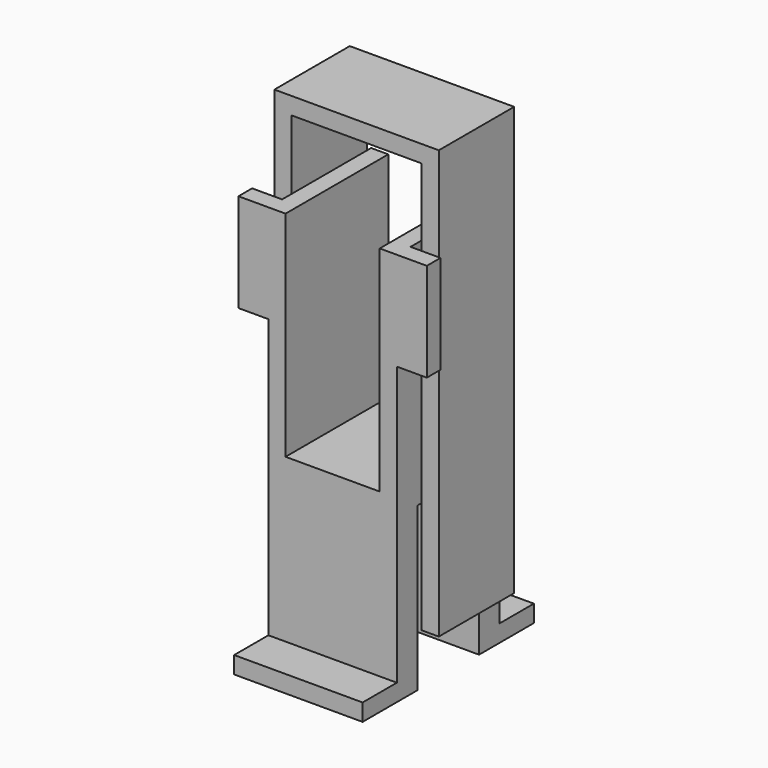
from build123d import *

# Parameters (mm, degrees)
F0_W      = 300
F0_H      = 300
F1_DEPTH  = 40
F2_W      = 40
F2_H      = 300
F3_DEPTH  = 500
F4_W      = 70
F4_H      = 230
F5_DEPTH  = 40
F6_W      = 40
F6_H      = 220
F7_DEPTH  = 200
F8_W      = 344
F8_H      = 220
F9_DEPTH  = 40
F10_DEPTH = 800
F11_W     = 300
F11_H     = 60
F12_DEPTH = 380
F13_W     = 300
F13_H     = 100
F13_H_2   = 60
F13_H_3   = 160
F14_DEPTH = 40


with BuildPart() as f1:
    # F0 (on Top) → F1 (new body)
    with BuildSketch(Plane.XY):
        Rectangle(F0_W, F0_H)
    extrude(amount=F1_DEPTH)

    # F2 (on face) → F3 (join)
    with BuildSketch(Plane.XY.offset(40)):
        with Locations((-130, 0)):
            Rectangle(F2_W, F2_H)
        with Locations((130, 0)):
            Rectangle(F2_W, F2_H)
    extrude(amount=F3_DEPTH)

    # F4 (on face) → F5 (join)
    with BuildSketch(Plane.XZ.offset(150)):
        with Locations((-185, 425)):
            Rectangle(F4_W, F4_H)
        with Locations((185, 425)):
            Rectangle(F4_W, F4_H)
    extrude(amount=-F5_DEPTH)

    # F11 (on face) → F12 (join)
    with BuildSketch(Plane(origin=(0, 0, 0), x_dir=(1, 0, 0), z_dir=(0, 0, -1))):
        with Locations((0, -120)):
            Rectangle(F11_W, F11_H)
        with Locations((0, 120)):
            Rectangle(F11_W, F11_H)
    extrude(amount=F12_DEPTH)

    # F13 (on face) → F14 (join)
    with BuildSketch(Plane(origin=(0, 0, -380), x_dir=(1, 0, 0), z_dir=(0, 0, -1))):
        with Locations((0, 200)):
            Rectangle(F13_W, F13_H)
        with Locations((0, 120)):
            Rectangle(F13_W, F13_H_2)
        with Locations((0, -170)):
            Rectangle(F13_W, F13_H_3)
    extrude(amount=-F14_DEPTH)


with BuildPart() as f7:
    # F6 (on face) → F7 (new body)
    with BuildSketch(Plane.XY.offset(540)):
        with Locations((172, 30)):
            Rectangle(F6_W, F6_H)
    extrude(amount=F7_DEPTH)



with BuildPart() as f7b:
    # F6 (on face) → F7, piece 2 (new body)
    with BuildSketch(Plane.XY.offset(540)):
        with Locations((-172, 30)):
            Rectangle(F6_W, F6_H)
    extrude(amount=F7_DEPTH)


with BuildPart() as f7_1:
    add(f7.part)

    add(f7b.part)  # F9 merges F7b
    # F8 (on face) → F9 (join)
    with BuildSketch(Plane.XY.offset(740)):
        with Locations((-20, 30)):
            Rectangle(F8_W, F8_H)
    extrude(amount=-F9_DEPTH)

    # F10 (add): faces of the model
    f10_faces = [f7_1.faces().sort_by_distance(p)[0] for p in [
        (172, 30, 540),
        (-172, 30, 540),
    ]]
    extrude(f10_faces, amount=F10_DEPTH)


solid = Compound([f1.part, f7_1.part])
